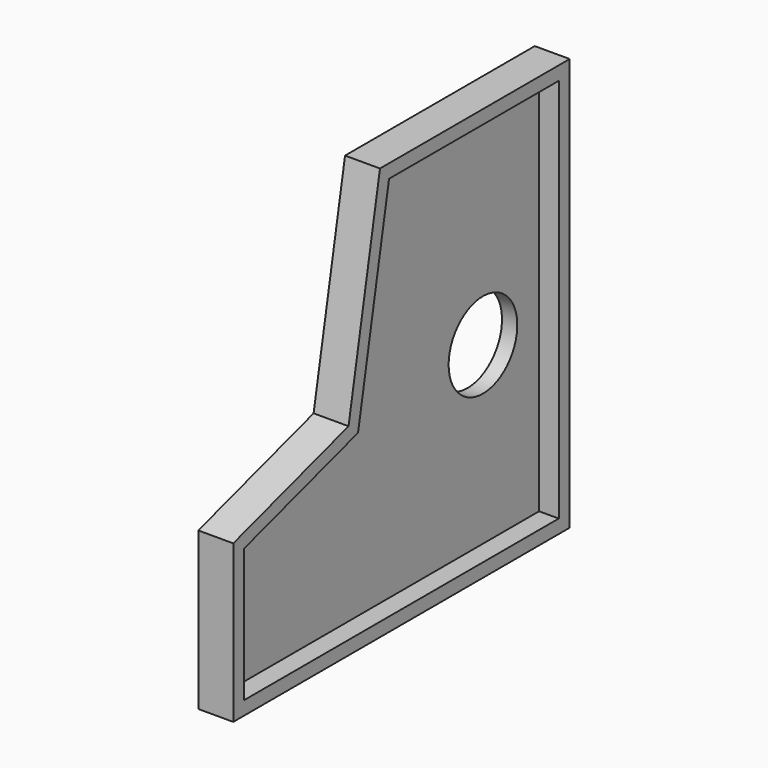
from build123d import *

# Parameters (mm, degrees)
F1_DEPTH = 3.556
F3_DEPTH = 4.572
F4_R     = 9.984236
F5_DEPTH = 25.4


with BuildPart() as f1:
    # F0 (on Right) → F1 (new body)
    with BuildSketch(Plane.YZ):
        Polygon((44.500802, -31.851601), (44.500802, 64.160399), (-10.668, 64.160399), (-19.812001, 15.0876), (-53.340003, 4.7244), (-53.340003, -31.851601), align=None)
    extrude(amount=F1_DEPTH)

    # F2 (on face) → F3 (join)
    with BuildSketch(Plane.YZ.offset(3.556)):
        Polygon((-10.668, 64.160399), (-19.812001, 15.0876), (-53.340003, 4.7244), (-53.340003, -31.851601), (44.500802, -31.851601), (44.500802, 64.160399), align=None)
        Polygon((-8.029966, 60.985399), (41.325802, 60.985399), (41.325802, -28.676601), (-50.165003, -28.676601), (-50.165003, 2.382557), (-17.042049, 12.620561), align=None, mode=Mode.SUBTRACT)
    extrude(amount=F3_DEPTH)

    # F4 (on face) → F5 (cut)
    with BuildSketch(Plane(origin=(0, 0, 0), x_dir=(0, -1, 0), z_dir=(-1, 0, 0))):
        with Locations((-24.9936, 12.0396)):
            Circle(F4_R)
    extrude(amount=-F5_DEPTH, mode=Mode.SUBTRACT)


solid = f1.part
